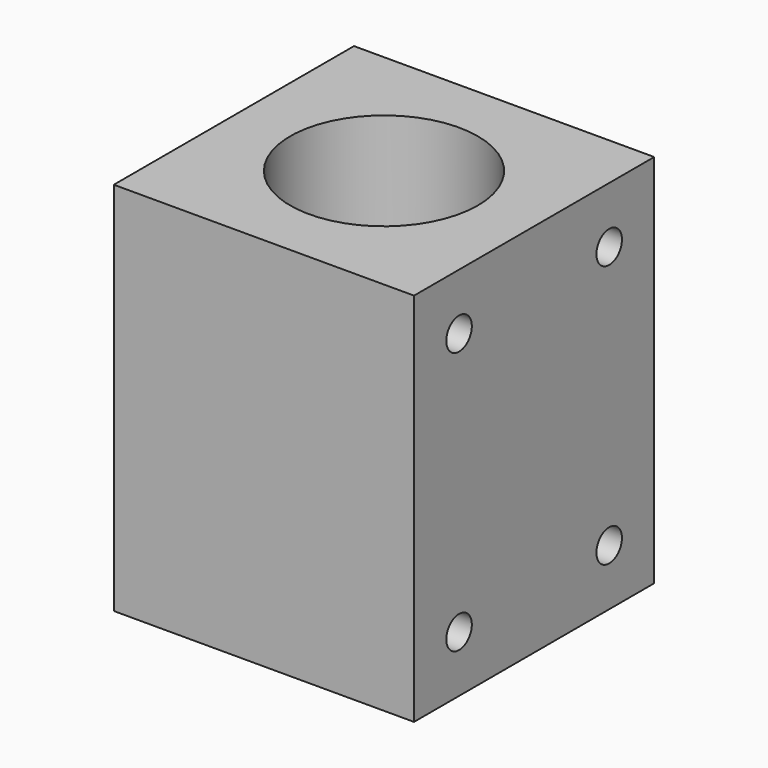
from build123d import *

# Parameters (mm, degrees)
F0_W     = 16
F0_H     = 16
F0_R     = 5
F1_DEPTH = 20
F3_D     = 1.7
F3_DEPTH = 3
F3_TIP   = 0.5107315262
F5_DEPTH = 0.5


with BuildPart() as f1:
    # F0 (on Top) → F1 (new body)
    with BuildSketch(Plane.XY):
        Rectangle(F0_W, F0_H)
        Circle(F0_R, mode=Mode.SUBTRACT)
    extrude(amount=F1_DEPTH)

    # F3
    with Locations(Plane.YZ.offset(8)):
        with Locations((-5, 17), (5, 17), (5, 3), (-5, 3)):
            Hole(F3_D / 2, depth=F3_DEPTH)
            with Locations((0, 0, -(F3_DEPTH + F3_TIP / 2))):  # 118° drill point
                Cone(0, F3_D / 2, F3_TIP, mode=Mode.SUBTRACT)

    # F4 (on face) → F5 (cut)
    with BuildSketch(Plane(origin=(0, 0, 0), x_dir=(1, 0, 0), z_dir=(0, 0, -1))):
        with BuildLine():
            Line((0, -1), (6.5, -1))
            ThreePointArc((6.5, -1), (7.5, 0), (6.5, 1))
            Line((6.5, 1), (0, 1))
            Line((0, 1), (0, -1))
        make_face()
    extrude(amount=-F5_DEPTH, mode=Mode.SUBTRACT)


solid = f1.part
